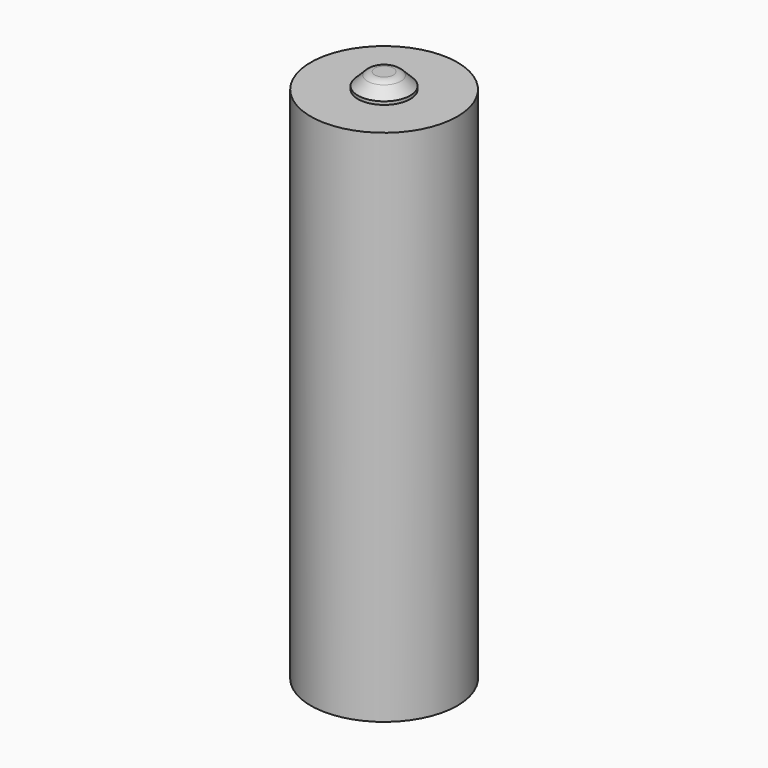
from build123d import *

# Parameters (mm, degrees)
SKETCH016_R     = 7
PAD011_DEPTH    = 49.5
SKETCH014_R     = 2.5
PAD012_DEPTH    = 1.5
CHAMFER001_SIZE = 1.2
FILLET003_R     = 1


with BuildPart() as part:
    # Sketch016 → Pad011 (new body)
    with BuildSketch(Plane.XY):
        Circle(SKETCH016_R)
    extrude(amount=PAD011_DEPTH)

    # Sketch014 (on Face3 of Pad011) → Pad012 (join)
    with BuildSketch(Plane.XY.offset(49.5)):
        Circle(SKETCH014_R)
    extrude(amount=PAD012_DEPTH)

    # Chamfer001
    chamfer001_edges = [part.edges().sort_by_distance(p)[0] for p in [
        (-2.5, 0, 51),
    ]]
    chamfer(chamfer001_edges, length=CHAMFER001_SIZE)

    # Fillet003
    fillet003_edges = [part.edges().sort_by_distance(p)[0] for p in [
        (-1.3, 0, 51),
    ]]
    fillet(fillet003_edges, radius=FILLET003_R)


solid = part.part
